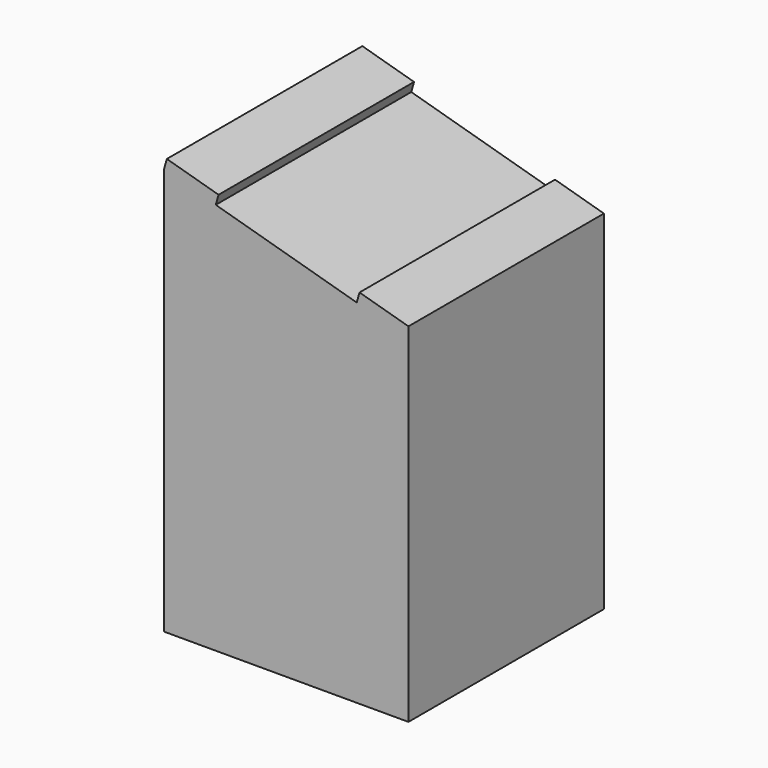
from build123d import *

# Parameters (mm, degrees)
F0_W     = 76.2
F0_H     = 76.2
F1_DEPTH = 127
F3_DEPTH = 76.201
F4_W     = 16.764
F4_H     = 76.2
F5_DEPTH = 3.175
F7_DEPTH = 76.201


with BuildPart() as f1:
    # F0 (on Top) → F1 (new body)
    with BuildSketch(Plane.XY):
        with Locations((-0.143903846, 10.1010264666)):
            Rectangle(F0_W, F0_H)
    extrude(amount=F1_DEPTH)

    # F2 (on face) → F3 (cut, through all)
    with BuildSketch(Plane.XZ.offset(27.9989735334)):
        Polygon((37.956096154, 127), (-38.243903846, 127), (37.956096154, 105.2891537547), align=None)
    extrude(amount=-F3_DEPTH, mode=Mode.SUBTRACT)

    # F4 (on face) → F5 (join)
    with BuildSketch(Plane(origin=(30.5963615899, 0, 107.3860837485), x_dir=(0.9617256613, 0, -0.2740141465), z_dir=(0.2740141465, 0, 0.9617256613))):
        with Locations((-63.1979403185, 10.1010264666)):
            Rectangle(F4_W, F4_H)
        with Locations((-0.7293659272, 10.1010264666)):
            Rectangle(F4_W, F4_H)
    extrude(amount=F5_DEPTH)

    # F6 (on face) → F7 (cut, through all)
    with BuildSketch(Plane.XZ.offset(27.9989735334)):
        Polygon((37.956096154, 108.590511021), (37.956096154, 105.2891537547), (38.826091069, 108.3426327292), align=None)
    extrude(amount=-F7_DEPTH, mode=Mode.SUBTRACT)


solid = f1.part
